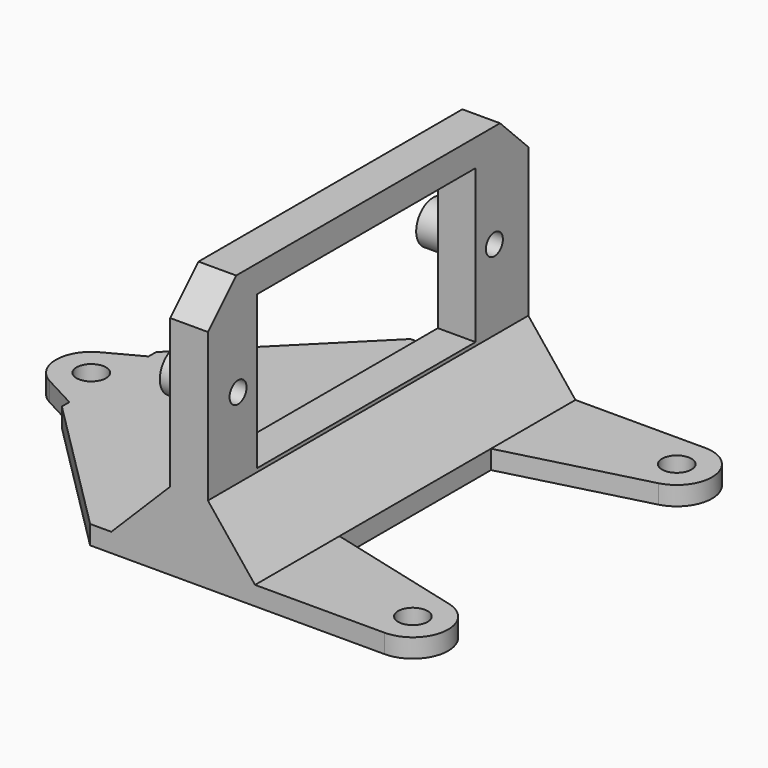
from build123d import *

# Parameters (mm, degrees)
PAD_DEPTH       = 34
SKETCH_R        = 0.9
POCKET_DEPTH    = 22.001
SKETCH003_W     = 13
SKETCH003_H     = 23.2
POCKET001_DEPTH = 22.001
SKETCH005_R     = 1.25
PAD001_DEPTH    = 1.6
SKETCH006_R     = 1.25
PAD002_DEPTH    = 1.6
SKETCH008_R     = 1.8
SKETCH008_R_2   = 1
PAD003_DEPTH    = 2
CHAMFER_SIZE    = 3
CHAMFER001_SIZE = 12


with BuildPart() as part:
    # Sketch001 → Pad (new body)
    with BuildSketch(Plane.XZ):
        Polygon((-22, 1.6), (-8.2, 1.6), (-3.2, 6.6), (-3.2, 22.2), (0, 22.2), (0, 6.6), (4, 1.6), (4, 0), (-3.601763, 0), (-22, 0), align=None)
    extrude(amount=PAD_DEPTH)

    # Sketch → Pocket (cut, through all)
    with BuildSketch(Plane(origin=(0, 0, 0), x_dir=(0, 0, 1), z_dir=(1, 0, 0))):
        with Locations((13.4, 30.8)):
            Circle(SKETCH_R)
        with Locations((13.4, 3.6)):
            Circle(SKETCH_R)
    extrude(amount=-POCKET_DEPTH, mode=Mode.SUBTRACT)

    # Sketch003 (on DatumPlane) → Pocket001 (cut, through all)
    with BuildSketch(Plane(origin=(0, 0, 0), x_dir=(0, 0, 1), z_dir=(1, 0, 0))):
        with Locations((13.4, 17.2)):
            Rectangle(SKETCH003_W, SKETCH003_H)
    extrude(amount=-POCKET001_DEPTH, mode=Mode.SUBTRACT)

    # Sketch005 → Pad001 (join)
    with BuildSketch(Plane.XY):
        with BuildLine():
            ThreePointArc((-24.911765, -14.352941), (-26.5, -17), (-24.911765, -19.647059))
            Line((-20.5, -22), (-24.911765, -19.647059))
            Line((-20.5, -12), (-20.5, -22))
            Line((-20.5, -12), (-24.911765, -14.352941))
        make_face()
        with Locations((-23.5, -17)):
            Circle(SKETCH005_R, mode=Mode.SUBTRACT)
    extrude(amount=PAD001_DEPTH)

    # Sketch006 → Pad002 (join)
    with BuildSketch(Plane.XY):
        with BuildLine():
            ThreePointArc((15, -34), (17.975766, -31.380547), (15.754946, -28.096544))
            Line((0, -24), (15.754946, -28.096544))
            Line((0, -34), (0, -24))
            Line((0, -34), (15, -34))
        make_face()
        with Locations((15, -31)):
            Circle(SKETCH006_R, mode=Mode.SUBTRACT)
        with BuildLine():
            ThreePointArc((15.754946, -5.903456), (17.975766, -2.619453), (15, 0))
            Line((0, 0), (15, 0))
            Line((0, 0), (0, -10))
            Line((0, -10), (15.754946, -5.903456))
        make_face()
        with Locations((15, -3)):
            Circle(SKETCH006_R, mode=Mode.SUBTRACT)
    extrude(amount=PAD002_DEPTH)

    # Sketch008 (on Face2 of Pad002) → Pad003 (join)
    with BuildSketch(Plane(origin=(-3.2, 0, 0), x_dir=(0, 0, -1), z_dir=(-1, 0, 0))):
        with Locations((-13.4, 30.8)):
            Circle(SKETCH008_R)
        with Locations((-13.4, 30.8)):
            Circle(SKETCH008_R_2, mode=Mode.SUBTRACT)
        with Locations((-13.4, 3.6)):
            Circle(SKETCH008_R)
        with Locations((-13.4, 3.6)):
            Circle(SKETCH008_R_2, mode=Mode.SUBTRACT)
    extrude(amount=PAD003_DEPTH)

    # Chamfer
    chamfer_edges = [part.edges().sort_by_distance(p)[0] for p in [
        (-1.6, -34, 22.2),
        (-1.6, 0, 22.2),
    ]]
    chamfer(chamfer_edges, length=CHAMFER_SIZE)

    # Chamfer001
    chamfer001_edges = [part.edges().sort_by_distance(p)[0] for p in [
        (-22, -34, 0.8),
        (-22, 0, 0.8),
    ]]
    chamfer(chamfer001_edges, length=CHAMFER001_SIZE)


solid = part.part
